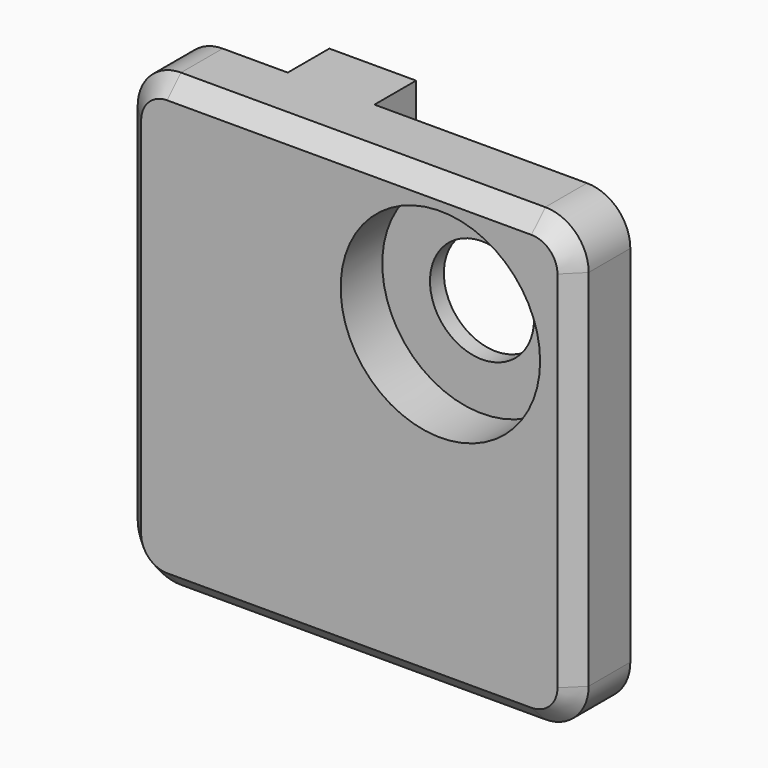
from build123d import *

# Parameters (mm, degrees)
F0_W     = 26
F0_H     = 26
F1_DEPTH = 4
F2_W     = 5
F2_H     = 26
F3_DEPTH = 3
F4_R     = 2.5
F5_R     = 3
F6_DEPTH = 25
F7_R     = 5.75
F8_DEPTH = 3
F9_SIZE  = 1


with BuildPart() as f1:
    # F0 (on Front) → F1 (new body)
    with BuildSketch(Plane.XZ):
        Rectangle(F0_W, F0_H)
    extrude(amount=-F1_DEPTH)

    # F2 (on face) → F3 (join)
    with BuildSketch(Plane(origin=(0, 4, 0), x_dir=(-1, 0, 0), z_dir=(0, 1, 0))):
        with Locations((4.25, 0)):
            Rectangle(F2_W, F2_H)
    extrude(amount=F3_DEPTH)

    # F4
    f4_edges = [f1.edges().sort_by_distance(p)[0] for p in [
        (-13, 2, 13),
        (-13, 2, -13),
        (13, 2, 13),
        (13, 2, -13),
    ]]
    fillet(f4_edges, radius=F4_R)

    # F5 (on face) → F6 (cut)
    with BuildSketch(Plane.XZ):
        with Locations((5.25, 5.75)):
            Circle(F5_R)
    extrude(amount=-F6_DEPTH, mode=Mode.SUBTRACT)

    # F7 (on face) → F8 (cut)
    with BuildSketch(Plane.XZ):
        with Locations((5.25, 5.75)):
            Circle(F7_R)
    extrude(amount=-F8_DEPTH, mode=Mode.SUBTRACT)

    # F9
    f9_edges = [f1.edges().sort_by_distance(p)[0] for p in [
        (-13, 0, 0),
    ]]
    chamfer(f9_edges, length=F9_SIZE)


solid = f1.part
